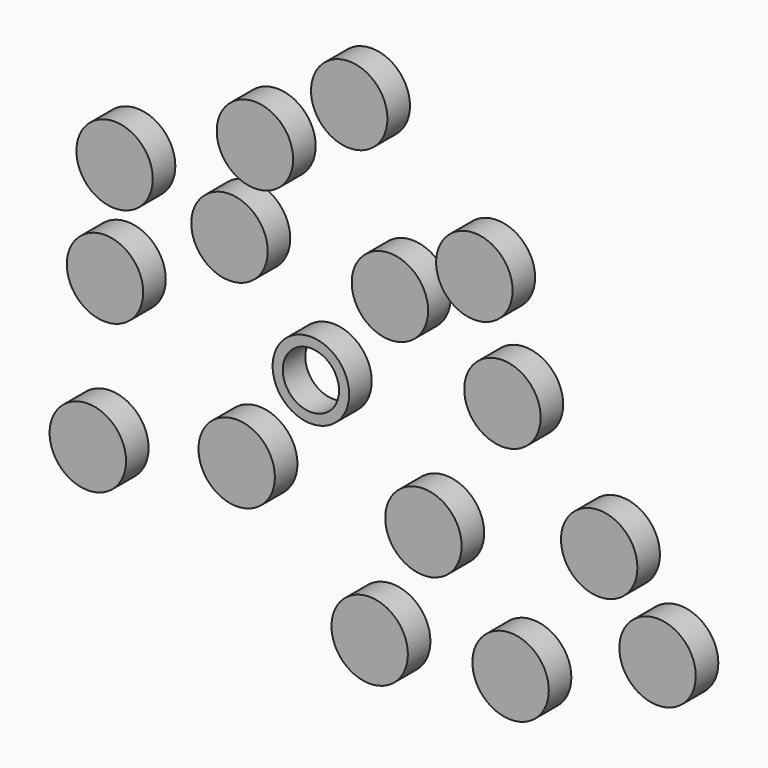
from build123d import *

# Parameters (mm, degrees)
F0_R     = 3.446999
F1_DEPTH = 2.54
F2_R     = 2.533991
F3_DEPTH = 25.146
F4_R     = 3.4417
F5_DEPTH = 2.54
F6_R     = 3.4417
F7_DEPTH = 2.54


with BuildPart() as f1:
    # F0 (on Front) → F1 (new body)
    with BuildSketch(Plane.XZ):
        Circle(F0_R)
    extrude(amount=F1_DEPTH)

    # F2 (on Front) → F3 (cut)
    with BuildSketch(Plane.XZ):
        Circle(F2_R)
    extrude(amount=F3_DEPTH, mode=Mode.SUBTRACT)


with BuildPart() as f5:
    # F4 (on Front) → F5 (new body)
    with BuildSketch(Plane.XZ):
        with Locations((-18.546794, 2.048773)):
            Circle(F4_R)
        with Locations((17.252831, 3.774057)):
            Circle(F4_R)
        with Locations((7.116792, 8.949906)):
            Circle(F4_R)
        with Locations((-7.332453, 8.949906)):
            Circle(F4_R)
        with Locations((10.136038, -8.734245)):
            Circle(F4_R)
        with Locations((-6.685472, -8.734245)):
            Circle(F4_R)
    extrude(amount=F5_DEPTH)


with BuildPart() as f7:
    # F6 (on Front) → F7 (new body)
    with BuildSketch(Plane.XZ):
        with Locations((-17.68415, 11.32217)):
            Circle(F6_R)
        with Locations((-5.043433, 17.007871)):
            Circle(F6_R)
        with Locations((3.450567, 22.96783)):
            Circle(F6_R)
        with Locations((14.723504, 13.018214)):
            Circle(F6_R)
        with Locations((25.967082, -5.297938)):
            Circle(F6_R)
        with Locations((31.226173, -12.189164)):
            Circle(F6_R)
        with Locations((17.987767, -17.629605)):
            Circle(F6_R)
        with Locations((5.293406, -18.89904)):
            Circle(F6_R)
        with Locations((-20.09532, -11.826468)):
            Circle(F6_R)
    extrude(amount=F7_DEPTH)


solid = Compound([f1.part, f5.part, f7.part])
